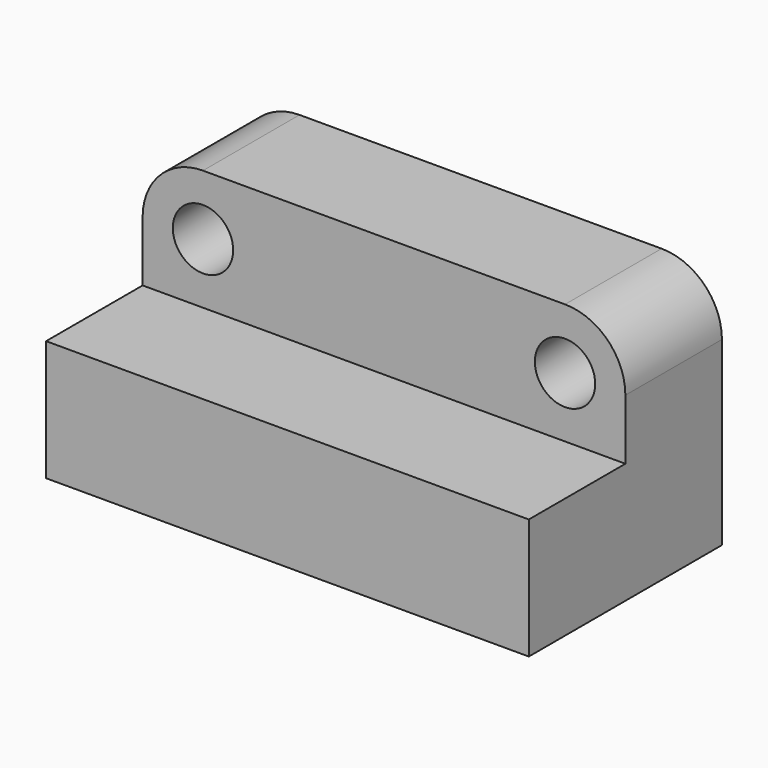
from build123d import *

# Parameters (mm, degrees)
F1_DEPTH = 203.2
F2_W     = 76.2
F2_H     = 50.8
F3_DEPTH = 50.8
F4_R     = 25.4
F5_R     = 12.7
F6_DEPTH = 25.4


with BuildPart() as f1:
    # F0 (on Right) → F1 (new body)
    with BuildSketch(Plane.YZ):
        Polygon((14.799971, 3.178266), (-36.000029, 3.178266), (-36.000029, -47.621734), (65.599971, -47.621734), (65.599971, 3.178266), (65.599971, 53.978266), (14.799971, 53.978266), align=None)
    extrude(amount=F1_DEPTH)

    # F2 (on face) → F3 (cut)
    with BuildSketch(Plane(origin=(0, 0, -47.621734), x_dir=(1, 0, 0), z_dir=(0, 0, -1))):
        with Locations((38.1, 61.400029)):
            Rectangle(F2_W, F2_H)
        with Locations((241.3, 10.600029)):
            Rectangle(F2_W, F2_H)
    extrude(amount=-F3_DEPTH, mode=Mode.SUBTRACT)

    # F4
    f4_edges = [f1.edges().sort_by_distance(p)[0] for p in [
        (0, 40.199971, 53.978266),
        (203.2, 40.199971, 53.978266),
    ]]
    fillet(f4_edges, radius=F4_R)

    # F5 (on face) → F6 (cut)
    with BuildSketch(Plane.XZ.offset(-14.799971)):
        with Locations((25.4, 28.578266)):
            Circle(F5_R)
        with Locations((177.8, 28.578266)):
            Circle(F5_R)
    extrude(amount=-F6_DEPTH, mode=Mode.SUBTRACT)


solid = f1.part
